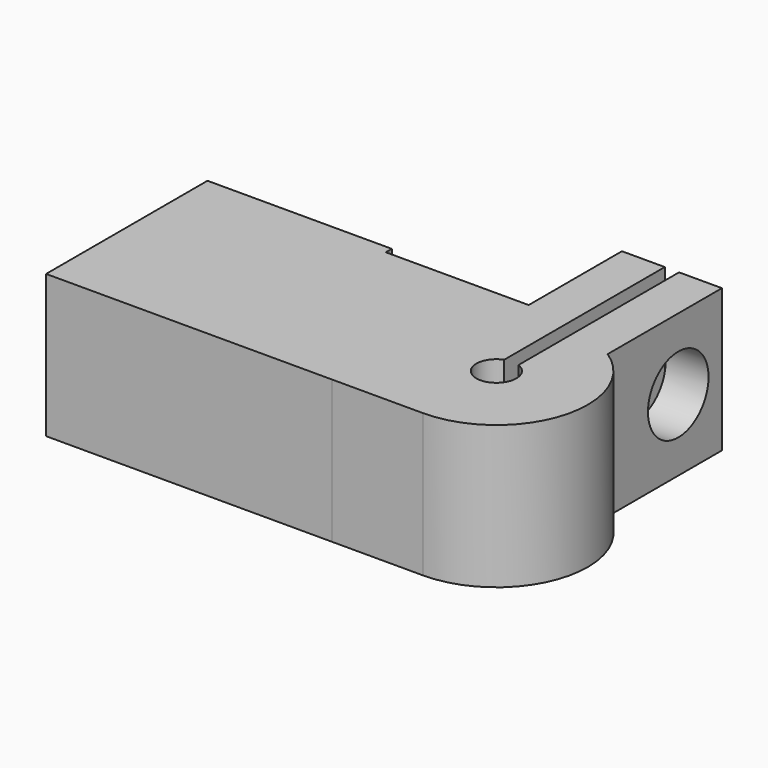
from build123d import *

# Parameters (mm, degrees)
F0_W     = 20
F0_H     = 14.121413
F1_DEPTH = 10
F2_R     = 2.65
F3_DEPTH = 9.901
F5_DEPTH = 10


with BuildPart() as f1:
    # F0 (on Top) → F1 (new body)
    with BuildSketch(Plane.XY):
        with Locations((-41.761377, 22.08462)):
            Rectangle(F0_W, F0_H)
        with BuildLine():
            ThreePointArc((-25.361377, 20.023914), (-26.738101, 21.169687), (-25.861377, 22.731583))
            Line((-25.861377, 22.731583), (-25.861377, 26.782085))
            Line((-25.861377, 26.782085), (-25.861377, 27.804352))
            Line((-25.861377, 27.804352), (-25.861377, 36.782085))
            Line((-25.861377, 36.782085), (-28.861377, 36.782085))
            Line((-28.861377, 36.782085), (-28.861377, 29.145327))
            Line((-28.861377, 29.145327), (-31.761377, 29.145327))
            Line((-31.761377, 29.145327), (-31.761377, 15.023914))
            Line((-31.761377, 15.023914), (-25.361377, 15.023914))
            Line((-25.361377, 15.023914), (-25.361377, 20.023914))
        make_face()
        with BuildLine():
            ThreePointArc((-24.861377, 22.731583), (-23.984653, 21.169687), (-25.361377, 20.023914))
            Line((-25.361377, 20.023914), (-25.361377, 15.023914))
            ThreePointArc((-25.361377, 15.023914), (-19.227361, 19.59803), (-21.861377, 26.782085))
            Line((-21.861377, 26.782085), (-21.861377, 36.782085))
            Line((-21.861377, 36.782085), (-24.861377, 36.782085))
            Line((-24.861377, 36.782085), (-24.861377, 27.804352))
            Line((-24.861377, 27.804352), (-24.861377, 26.782085))
            Line((-24.861377, 26.782085), (-24.861377, 22.731583))
        make_face()
    extrude(amount=F1_DEPTH)

    # F2 (on face) → F3 (cut, through all)
    with BuildSketch(Plane(origin=(-28.861377, 0, 0), x_dir=(0, -1, 0), z_dir=(-1, 0, 0))):
        with Locations((-32.963706, 5)):
            Circle(F2_R)
    extrude(amount=-F3_DEPTH, mode=Mode.SUBTRACT)

    # F4 (on face) → F5 (cut)
    with BuildSketch(Plane(origin=(-28.861377, 0, 0), x_dir=(0, -1, 0), z_dir=(-1, 0, 0))):
        Polygon((-39.463706, 8.752777), (-39.463706, 1.247223), (-32.963706, -2.505553), (-26.463706, 1.247223), (-26.463706, 8.752777), (-32.963706, 12.505553), align=None)
        Polygon((-39.463706, 8.752777), (-39.463706, 1.247223), (-32.963706, -2.505553), (-26.463706, 1.247223), (-26.463706, 8.752777), (-32.963706, 12.505553), align=None)
    extrude(amount=F5_DEPTH, mode=Mode.SUBTRACT)


solid = f1.part
